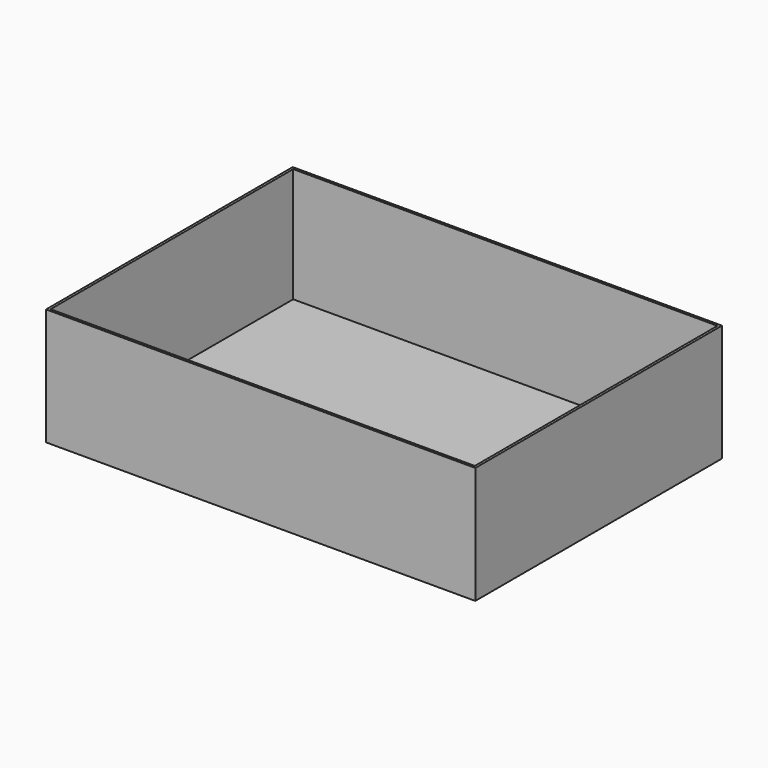
from build123d import *

# Parameters (mm, degrees)
F0_W     = 1099.82
F0_H     = 789.94
F1_DEPTH = 299.974
F2_T     = -6.35


with BuildPart() as f1:
    # F0 (on Top) → F1 (new body)
    with BuildSketch(Plane.XY):
        with Locations((549.91, 394.97)):
            Rectangle(F0_W, F0_H)
    extrude(amount=-F1_DEPTH)

    # F2
    f2_openings = [f1.faces().sort_by_distance(p)[0] for p in [
        (549.91, 394.97, 0),
    ]]
    offset(amount=F2_T, openings=f2_openings)


solid = f1.part
